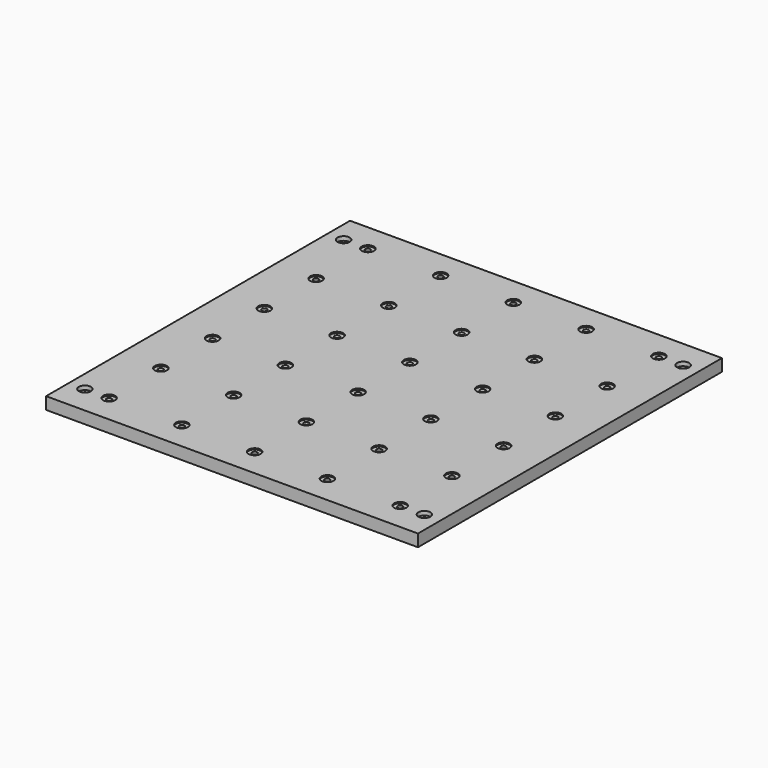
from build123d import *

# Parameters (mm, degrees)
F0_W      = 584.2
F0_H      = 596.9
F1_DEPTH  = 19.05
F2_R      = 9.525
F3_DEPTH  = 6.35
F4_R      = 3.9624
F5_DEPTH  = 19.051
F6_R      = 9.525
F7_DEPTH  = 6.35
F8_R      = 9.525
F9_DEPTH  = 1.905
F10_R     = 3.96875
F11_DEPTH = 19.051
F12_R     = 9.525
F13_DEPTH = 1.905


with BuildPart() as f1:
    # F0 (on Top) → F1 (new body)
    with BuildSketch(Plane.XY):
        with Locations((292.1, -298.45)):
            Rectangle(F0_W, F0_H)
    extrude(amount=F1_DEPTH)

    # F2 (on face) → F3 (cut)
    with BuildSketch(Plane.XY.offset(19.05)):
        with Locations((25.4, -552.45)):
            Circle(F2_R)
        with Locations((25.4, -44.45)):
            Circle(F2_R)
        with Locations((558.8, -552.45)):
            Circle(F2_R)
        with Locations((558.8, -44.45)):
            Circle(F2_R)
    extrude(amount=-F3_DEPTH, mode=Mode.SUBTRACT)

    # F4 (on face) → F5 (cut, through all)
    with BuildSketch(Plane.XY.offset(19.05)):
        with Locations((25.4, -552.45)):
            Circle(F4_R)
        with Locations((25.4, -44.45)):
            Circle(F4_R)
        with Locations((558.8, -552.45)):
            Circle(F4_R)
        with Locations((558.8, -44.45)):
            Circle(F4_R)
    extrude(amount=-F5_DEPTH, mode=Mode.SUBTRACT)

    # F6 (on face) → F7 (cut)
    with BuildSketch(Plane(origin=(0, 0, 0), x_dir=(1, 0, 0), z_dir=(0, 0, -1))):
        with Locations((25.4, 44.45)):
            Circle(F6_R)
        with Locations((25.4, 552.45)):
            Circle(F6_R)
        with Locations((558.8, 44.45)):
            Circle(F6_R)
        with Locations((558.8, 552.45)):
            Circle(F6_R)
    extrude(amount=-F7_DEPTH, mode=Mode.SUBTRACT)

    # F8 (on face) → F9 (cut)
    with BuildSketch(Plane.XY.offset(19.05)):
        with Locations((63.5, -552.45)):
            Circle(F8_R)
        with Locations((63.5, -450.85)):
            Circle(F8_R)
        with Locations((63.5, -349.25)):
            Circle(F8_R)
        with Locations((63.5, -247.65)):
            Circle(F8_R)
        with Locations((63.5, -146.05)):
            Circle(F8_R)
        with Locations((63.5, -44.45)):
            Circle(F8_R)
        with Locations((177.8, -552.45)):
            Circle(F8_R)
        with Locations((177.8, -450.85)):
            Circle(F8_R)
        with Locations((177.8, -349.25)):
            Circle(F8_R)
        with Locations((177.8, -247.65)):
            Circle(F8_R)
        with Locations((177.8, -146.05)):
            Circle(F8_R)
        with Locations((177.8, -44.45)):
            Circle(F8_R)
        with Locations((292.1, -552.45)):
            Circle(F8_R)
        with Locations((292.1, -450.85)):
            Circle(F8_R)
        with Locations((292.1, -349.25)):
            Circle(F8_R)
        with Locations((292.1, -247.65)):
            Circle(F8_R)
        with Locations((292.1, -146.05)):
            Circle(F8_R)
        with Locations((292.1, -44.45)):
            Circle(F8_R)
        with Locations((406.4, -552.45)):
            Circle(F8_R)
        with Locations((406.4, -450.85)):
            Circle(F8_R)
        with Locations((406.4, -349.25)):
            Circle(F8_R)
        with Locations((406.4, -247.65)):
            Circle(F8_R)
        with Locations((406.4, -146.05)):
            Circle(F8_R)
        with Locations((406.4, -44.45)):
            Circle(F8_R)
        with Locations((520.7, -552.45)):
            Circle(F8_R)
        with Locations((520.7, -450.85)):
            Circle(F8_R)
        with Locations((520.7, -349.25)):
            Circle(F8_R)
        with Locations((520.7, -247.65)):
            Circle(F8_R)
        with Locations((520.7, -146.05)):
            Circle(F8_R)
        with Locations((520.7, -44.45)):
            Circle(F8_R)
    extrude(amount=-F9_DEPTH, mode=Mode.SUBTRACT)

    # F10 (on face) → F11 (cut, through all)
    with BuildSketch(Plane.XY.offset(19.05)):
        with Locations((63.5, -552.45)):
            Circle(F10_R)
        with Locations((63.5, -450.85)):
            Circle(F10_R)
        with Locations((63.5, -349.25)):
            Circle(F10_R)
        with Locations((63.5, -247.65)):
            Circle(F10_R)
        with Locations((63.5, -146.05)):
            Circle(F10_R)
        with Locations((63.5, -44.45)):
            Circle(F10_R)
        with Locations((177.8, -552.45)):
            Circle(F10_R)
        with Locations((177.8, -450.85)):
            Circle(F10_R)
        with Locations((177.8, -349.25)):
            Circle(F10_R)
        with Locations((177.8, -247.65)):
            Circle(F10_R)
        with Locations((177.8, -146.05)):
            Circle(F10_R)
        with Locations((177.8, -44.45)):
            Circle(F10_R)
        with Locations((292.1, -552.45)):
            Circle(F10_R)
        with Locations((292.1, -450.85)):
            Circle(F10_R)
        with Locations((292.1, -349.25)):
            Circle(F10_R)
        with Locations((292.1, -247.65)):
            Circle(F10_R)
        with Locations((292.1, -146.05)):
            Circle(F10_R)
        with Locations((292.1, -44.45)):
            Circle(F10_R)
        with Locations((406.4, -552.45)):
            Circle(F10_R)
        with Locations((406.4, -450.85)):
            Circle(F10_R)
        with Locations((406.4, -349.25)):
            Circle(F10_R)
        with Locations((406.4, -247.65)):
            Circle(F10_R)
        with Locations((406.4, -146.05)):
            Circle(F10_R)
        with Locations((406.4, -44.45)):
            Circle(F10_R)
        with Locations((520.7, -552.45)):
            Circle(F10_R)
        with Locations((520.7, -450.85)):
            Circle(F10_R)
        with Locations((520.7, -349.25)):
            Circle(F10_R)
        with Locations((520.7, -247.65)):
            Circle(F10_R)
        with Locations((520.7, -146.05)):
            Circle(F10_R)
        with Locations((520.7, -44.45)):
            Circle(F10_R)
    extrude(amount=-F11_DEPTH, mode=Mode.SUBTRACT)

    # F12 (on face) → F13 (cut)
    with BuildSketch(Plane(origin=(0, 0, 0), x_dir=(1, 0, 0), z_dir=(0, 0, -1))):
        with Locations((63.5, 552.45)):
            Circle(F12_R)
        with Locations((63.5, 450.85)):
            Circle(F12_R)
        with Locations((63.5, 349.25)):
            Circle(F12_R)
        with Locations((63.5, 247.65)):
            Circle(F12_R)
        with Locations((63.5, 146.05)):
            Circle(F12_R)
        with Locations((63.5, 44.45)):
            Circle(F12_R)
        with Locations((177.8, 552.45)):
            Circle(F12_R)
        with Locations((177.8, 450.85)):
            Circle(F12_R)
        with Locations((177.8, 349.25)):
            Circle(F12_R)
        with Locations((177.8, 247.65)):
            Circle(F12_R)
        with Locations((177.8, 146.05)):
            Circle(F12_R)
        with Locations((177.8, 44.45)):
            Circle(F12_R)
        with Locations((292.1, 552.45)):
            Circle(F12_R)
        with Locations((292.1, 450.85)):
            Circle(F12_R)
        with Locations((292.1, 349.25)):
            Circle(F12_R)
        with Locations((292.1, 247.65)):
            Circle(F12_R)
        with Locations((292.1, 146.05)):
            Circle(F12_R)
        with Locations((292.1, 44.45)):
            Circle(F12_R)
        with Locations((406.4, 552.45)):
            Circle(F12_R)
        with Locations((406.4, 450.85)):
            Circle(F12_R)
        with Locations((406.4, 349.25)):
            Circle(F12_R)
        with Locations((406.4, 247.65)):
            Circle(F12_R)
        with Locations((406.4, 146.05)):
            Circle(F12_R)
        with Locations((406.4, 44.45)):
            Circle(F12_R)
        with Locations((520.7, 552.45)):
            Circle(F12_R)
        with Locations((520.7, 450.85)):
            Circle(F12_R)
        with Locations((520.7, 349.25)):
            Circle(F12_R)
        with Locations((520.7, 247.65)):
            Circle(F12_R)
        with Locations((520.7, 146.05)):
            Circle(F12_R)
        with Locations((520.7, 44.45)):
            Circle(F12_R)
    extrude(amount=-F13_DEPTH, mode=Mode.SUBTRACT)


solid = f1.part
